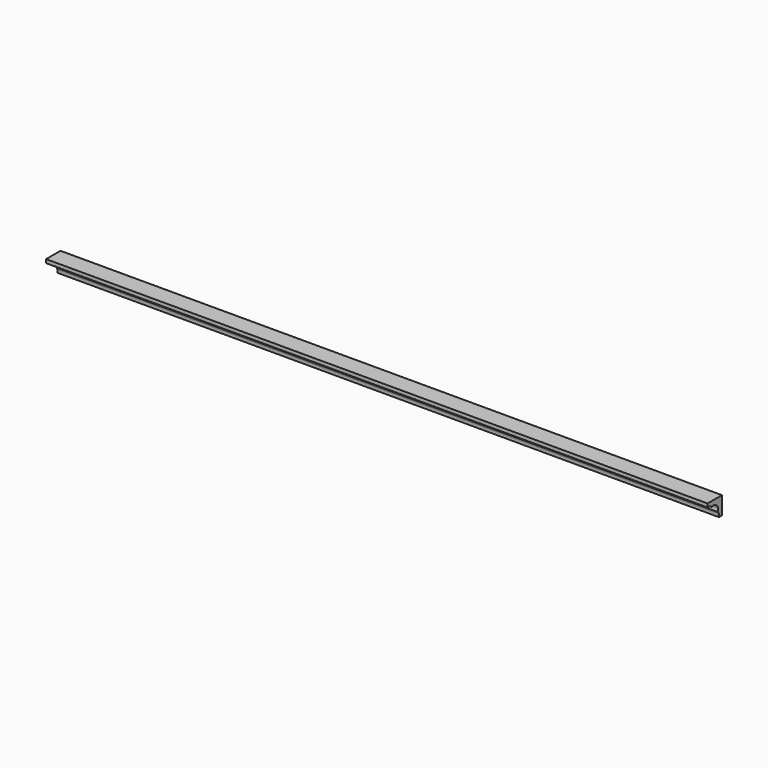
from build123d import *

# Parameters (mm, degrees)
F1_DEPTH = 1840


with BuildPart() as f1:
    # F0 (on Right) → F1 (new body, symmetric)
    with BuildSketch(Plane.YZ):
        with BuildLine():
            Line((-20, -100), (0, -100))
            Line((0, -100), (0, 0))
            Line((0, 0), (-100, 0))
            Line((-100, 0), (-100, -20))
            ThreePointArc((-100, -20), (-83.575425, -20.726274), (-70, -30))
            ThreePointArc((-70, -30), (-35.857864, -35.857864), (-30, -70))
            ThreePointArc((-30, -70), (-20.726274, -83.575425), (-20, -100))
        make_face()
    extrude(amount=F1_DEPTH, both=True)


solid = f1.part
